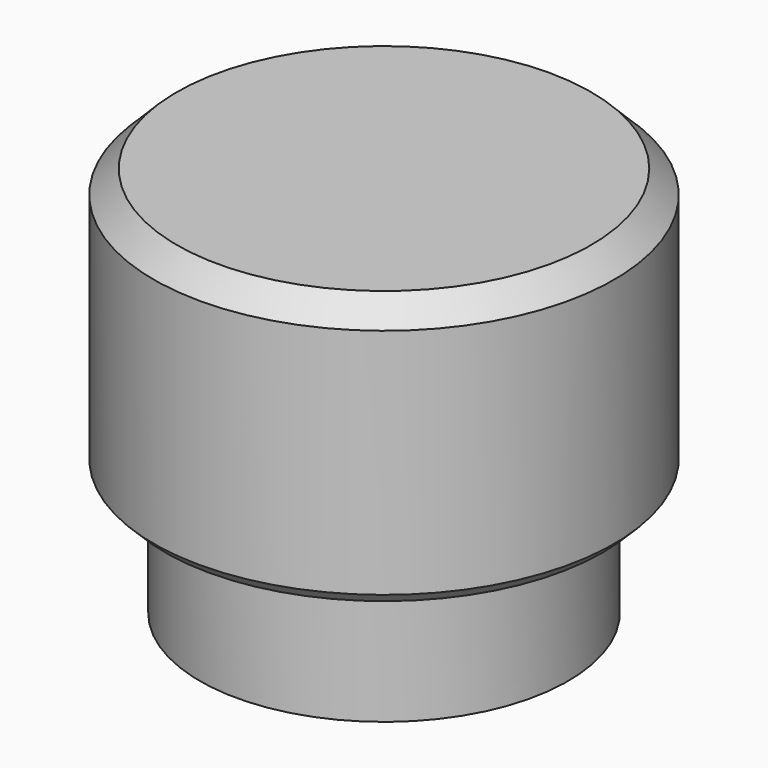
from build123d import *

# Parameters (mm, degrees)
SKETCH004_R     = 4
PAD003_DEPTH    = 2.7
SKETCH005_R     = 5
PAD004_DEPTH    = 5.8
CHAMFER_SIZE    = 0.5
CHAMFER002_SIZE = 0.25


with BuildPart() as part:
    # Sketch004 (on Face1 of CopySubtractivePipe) → Pad003 (new body)
    with BuildSketch(Plane(origin=(0, 0, 26), x_dir=(0, 1, 0), z_dir=(0, 0, 1))):
        Circle(SKETCH004_R)
    extrude(amount=PAD003_DEPTH)

    # Sketch005 (on Face3 of Pad003) → Pad004 (join)
    with BuildSketch(Plane(origin=(0, 0, 28.7), x_dir=(0, 1, 0), z_dir=(0, 0, 1))):
        Circle(SKETCH005_R)
    extrude(amount=PAD004_DEPTH)

    # Chamfer
    chamfer_edges = [part.edges().sort_by_distance(p)[0] for p in [
        (0, -5, 34.5),
    ]]
    chamfer(chamfer_edges, length=CHAMFER_SIZE)

    # Chamfer002
    chamfer002_edges = [part.edges().sort_by_distance(p)[0] for p in [
        (0, -5, 28.7),
    ]]
    chamfer(chamfer002_edges, length=CHAMFER002_SIZE)


solid = part.part
